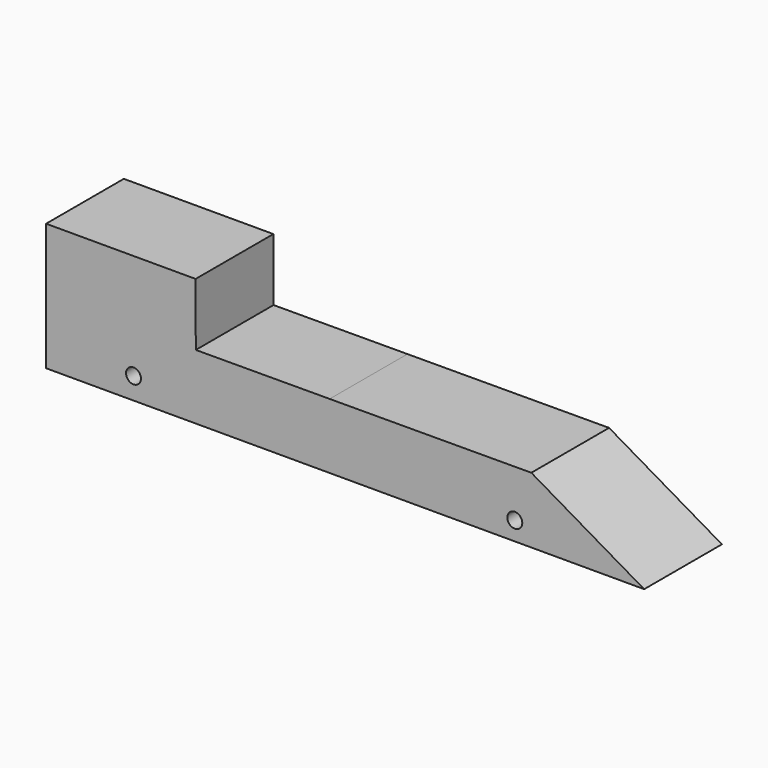
from build123d import *

# Parameters (mm, degrees)
F1_DEPTH  = 41.275
F2_R      = 9.525
F3_DEPTH  = 50.8
F5_DEPTH  = 50.8
F7_DEPTH  = 50.8
F9_DEPTH  = 50.8
F10_R     = 3.175
F10_R_2   = 3.361139
F11_DEPTH = 228.6
F12_DEPTH = 228.6


with BuildPart() as f1:
    # F0 (on Front) → F1 (new body)
    with BuildSketch(Plane.XZ):
        Polygon((304.8, 19.05), (0, 73.025), (0, 0), (304.8, 0), align=None)
    extrude(amount=-F1_DEPTH)

    # F2 (on face) → F3 (cut)
    with BuildSketch(Plane(origin=(0, 0, 0), x_dir=(0, -1, 0), z_dir=(-1, 0, 0))):
        with Locations((-20.6375, 30.160377)):
            Circle(F2_R)
    extrude(amount=-F3_DEPTH, mode=Mode.SUBTRACT)

    # F4 (on face) → F5 (cut)
    with BuildSketch(Plane.XZ):
        Polygon((0, 73.025), (0, 54.048669), (107.16046, 54.048669), align=None)
        Polygon((253.724616, 28.094599), (107.16046, 54.048669), (120.438509, 27.69807), align=None)
        Polygon((304.8, 19.05), (253.724616, 28.094599), (304.8, 0), align=None)
    extrude(amount=-F5_DEPTH, mode=Mode.SUBTRACT)

    # F6 (on face) → F7 (cut)
    with BuildSketch(Plane.XZ):
        Polygon((63.578897, 27.528911), (120.438509, 27.69807), (107.16046, 54.048669), (63.5, 54.048669), align=None)
    extrude(amount=-F7_DEPTH, mode=Mode.SUBTRACT)

    # F8 (on face) → F9 (cut)
    with BuildSketch(Plane.XZ):
        Polygon((254, 0), (304.8, 0), (253.724616, 28.094599), (206.078957, 27.952852), align=None)
    extrude(amount=-F9_DEPTH, mode=Mode.SUBTRACT)

    # F10 (on face) → F11 (cut)
    with BuildSketch(Plane.XZ):
        with Locations((37.127063, 9.212729)):
            Circle(F10_R)
        with Locations((289.942942, 6.520301)):
            Circle(F10_R_2)
    extrude(amount=-F11_DEPTH, mode=Mode.SUBTRACT)

    # F10 (on face) → F12 (cut)
    with BuildSketch(Plane.XZ):
        with Locations((37.127063, 9.212729)):
            Circle(F10_R)
        with Locations((289.942942, 6.520301)):
            Circle(F10_R_2)
        with Locations((199.063465, 7.915162)):
            Circle(F10_R)
    extrude(amount=-F12_DEPTH, mode=Mode.SUBTRACT)


solid = f1.part
